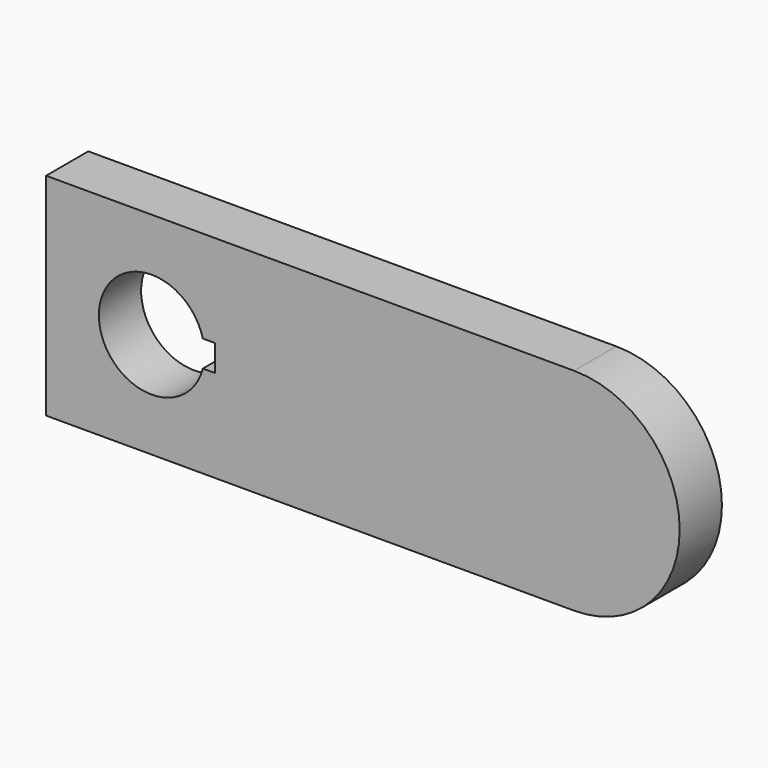
from build123d import *

# Parameters (mm, degrees)
F1_DEPTH = 10


with BuildPart() as f1:
    # F0 (on Front) → F1 (new body)
    with BuildSketch(Plane.XZ):
        with BuildLine():
            Line((-20, 20), (-20, 0))
            Line((-20, 0), (-20, -20))
            Line((-20, -20), (80, -20))
            ThreePointArc((80, -20), (100, 0), (80, 20))
            Line((80, 20), (-20, 20))
        make_face()
        with BuildLine():
            ThreePointArc((9.682458, -2.5), (-10, 0), (9.682458, 2.5))
            Line((9.682458, 2.5), (12, 2.5))
            Line((12, 2.5), (12, 0))
            Line((12, 0), (12, -2.5))
            Line((12, -2.5), (9.682458, -2.5))
        make_face(mode=Mode.SUBTRACT)
    extrude(amount=F1_DEPTH)


solid = f1.part
